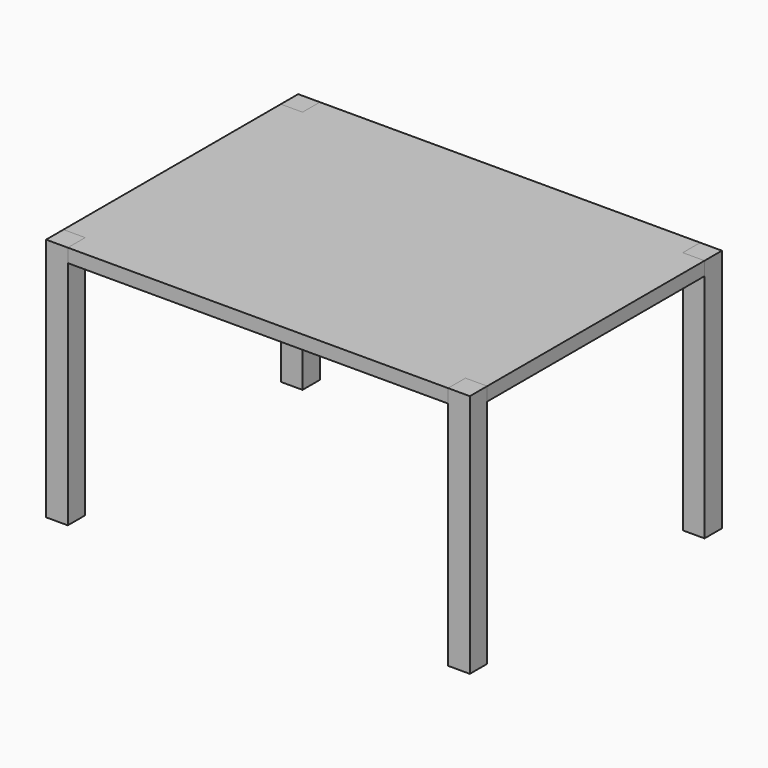
from build123d import *

# Parameters (mm, degrees)
F1_W     = 40
F1_H     = 40
F2_DEPTH = 450
F1_W_2   = 700
F1_H_2   = 500
F3_DEPTH = 25


with BuildPart() as f2:
    # F1 (on offset) → F2 (new body)
    with BuildSketch(Plane.XY.offset(600)):
        with Locations((-83.031024, -476.360332)):
            Rectangle(F1_W, F1_H)
        with Locations((-83.031024, 63.639668)):
            Rectangle(F1_W, F1_H)
        with Locations((656.968976, 63.639668)):
            Rectangle(F1_W, F1_H)
        with Locations((656.968976, -476.360332)):
            Rectangle(F1_W, F1_H)
    extrude(amount=-F2_DEPTH)


with BuildPart() as f3:
    # F1 (on offset) → F3 (new body)
    with BuildSketch(Plane.XY.offset(600)):
        with Locations((286.968976, -476.360332)):
            Rectangle(F1_W_2, F1_H)
        with Locations((-83.031024, -206.360332)):
            Rectangle(F1_W, F1_H_2)
        with Locations((286.968976, -206.360332)):
            Rectangle(F1_W_2, F1_H_2)
        with Locations((656.968976, -206.360332)):
            Rectangle(F1_W, F1_H_2)
        with Locations((286.968976, 63.639668)):
            Rectangle(F1_W_2, F1_H)
    extrude(amount=-F3_DEPTH)


solid = Compound([f2.part, f3.part])
